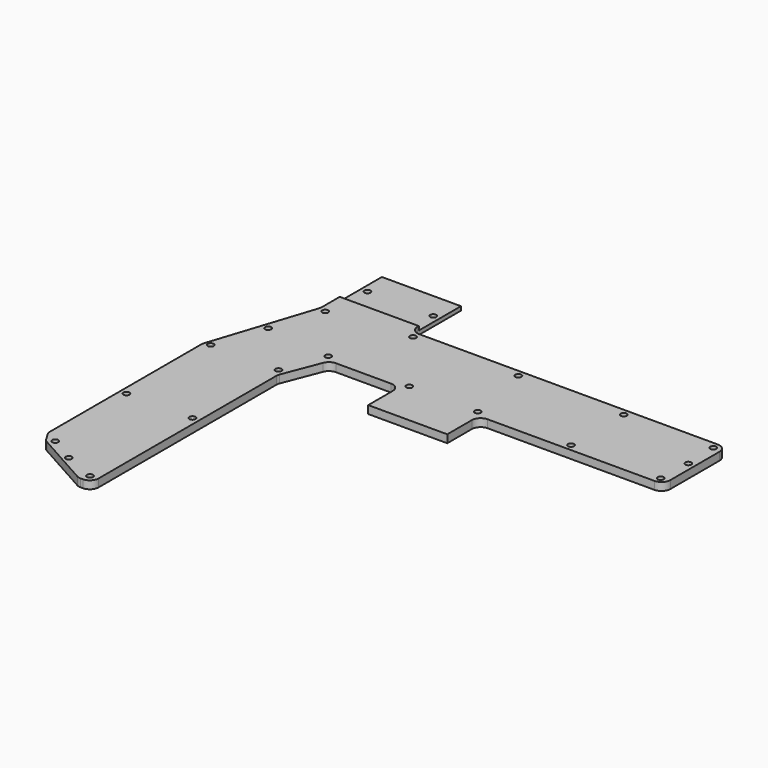
from build123d import *

# Parameters (mm, degrees)
PAD012_DEPTH            = 3
FILLET037_R             = 3.35
SKETCH185_R             = 1.15
POCKET053_DEPTH         = 3
POCKET056_DEPTH         = 5
SKETCH189_W             = 32
SKETCH189_H             = 20
POCKET057_DEPTH         = 1.5
BODY024_PLACEMENT_ANGLE = 149
CLONE_PLACEMENT_ANGLE   = 149


with BuildPart() as part:
    # Sketch184 → Pad012 (new body)
    with BuildSketch(Plane(origin=(0, 0, 0), x_dir=(1, 0, 0), z_dir=(0, 0, -1))):
        Polygon((101.467362, -402.500006), (130.400002, -402.500006), (135.400002, -402.500006), (135.400002, -397.500006), (174.999975, -357.90402), (174.999975, -245), (289.999995, -245), (294.999995, -245), (294.999995, -215), (289.999995, -215), (224.999995, -215), (224.999995, -199.999997), (219.999995, -199.999997), (199.999995, -199.999997), (194.999995, -199.999997), (194.999995, -215.000003), (168.459985, -215.000003), (161.999993, -198.359996), (161.999993, -115.000006), (161.999993, -110.000006), (156.999993, -110.000006), (134.576923, -122.534363), (131.999997, -126.895911), (131.999997, -200.027011), (144.989344, -239.967928), (144.989344, -343.839368), (96.467362, -392.500006), (96.467362, -397.500006), (96.467362, -402.500006), align=None)
    extrude(amount=PAD012_DEPTH)

    # Fillet037
    fillet037_edges = [part.edges().sort_by_distance(p)[0] for p in [
        (194.999995, 215.000003, -1.5),
        (168.459985, 215.000003, -1.5),
        (161.999993, 198.359996, -1.5),
        (161.999993, 110.000006, -1.5),
        (156.999993, 110.000006, -1.5),
        (134.576923, 122.534363, -1.5),
        (131.999997, 126.895911, -1.5),
        (131.999997, 200.027011, -1.5),
        (144.989344, 239.967928, -1.5),
        (144.989344, 343.839368, -1.5),
        (96.467362, 392.500006, -1.5),
        (135.400002, 397.500006, -1.5),
        (174.999975, 357.90402, -1.5),
        (174.999975, 245, -1.5),
        (294.999995, 245, -1.5),
        (294.999995, 215, -1.5),
        (224.999995, 215, -1.5),
    ]]
    fillet(fillet037_edges, radius=FILLET037_R)

    # Sketch185 (on Face5 of Fillet037) → Pocket053 (cut)
    with BuildSketch(Plane(origin=(0, 0, -3), x_dir=(1, 0, 0), z_dir=(0, 0, -1))):
        with Locations((105, -389)):
            Circle(SKETCH185_R)
        with Locations((145, -349)):
            Circle(SKETCH185_R)
        with Locations((147.500002, -309.000005)):
            Circle(SKETCH185_R)
        with Locations((147.500002, -259.000004)):
            Circle(SKETCH185_R)
        with Locations((172.500003, -259.000004)):
            Circle(SKETCH185_R)
        with Locations((172.500003, -309.000005)):
            Circle(SKETCH185_R)
        with Locations((172.500003, -349.000005)):
            Circle(SKETCH185_R)
        with Locations((147.665007, -382.765018)):
            Circle(SKETCH185_R)
        with Locations((178.000003, -242.500004)):
            Circle(SKETCH185_R)
        with Locations((218.000003, -242.500004)):
            Circle(SKETCH185_R)
        with Locations((258.000004, -242.500004)):
            Circle(SKETCH185_R)
        with Locations((258.000004, -217.500003)):
            Circle(SKETCH185_R)
        with Locations((292, -242.500004)):
            Circle(SKETCH185_R)
        with Locations((292.000004, -217.500003)):
            Circle(SKETCH185_R)
        with Locations((292.500004, -230.000003)):
            Circle(SKETCH185_R)
        with Locations((223.000003, -217.000003)):
            Circle(SKETCH185_R)
        with Locations((197, -217)):
            Circle(SKETCH185_R)
        with Locations((166.109996, -217.109995)):
            Circle(SKETCH185_R)
        with Locations((147.500002, -239)):
            Circle(SKETCH185_R)
        with Locations((141, -220)):
            Circle(SKETCH185_R)
        with Locations((134.427551, -201)):
            Circle(SKETCH185_R)
        with Locations((160.149996, -200.999996)):
            Circle(SKETCH185_R)
        with Locations((134.427551, -161)):
            Circle(SKETCH185_R)
        with Locations((159.500002, -161.000002)):
            Circle(SKETCH185_R)
        with Locations((137, -124)):
            Circle(SKETCH185_R)
        with Locations((146.849997, -118.149997)):
            Circle(SKETCH185_R)
        with Locations((159, -113)):
            Circle(SKETCH185_R)
    extrude(amount=-POCKET053_DEPTH, mode=Mode.SUBTRACT)

    # Sketch188 (on Face5 of Pocket053) → Pocket056 (cut)
    with BuildSketch(Plane(origin=(0, 0, -3), x_dir=(1, 0, 0), z_dir=(0, 0, -1))):
        Polygon((145, -269), (175, -269), (176, -269), (176, -410), (90, -410), (90, -269), align=None)
    extrude(amount=-POCKET056_DEPTH, mode=Mode.SUBTRACT)

    # Sketch189 (on Face2 of Pocket056) → Pocket057 (cut)
    with BuildSketch(Plane.XY):
        with Locations((160, 259)):
            Rectangle(SKETCH189_W, SKETCH189_H)
    extrude(amount=-POCKET057_DEPTH, mode=Mode.SUBTRACT)


with BuildPart() as part_1:
    # Body024 placement: moved
    add(part.part.moved(Location((707.641298, 2.853319, 22))).rotate(Axis((707.641298, 2.853319, 22), (0, 0, 1)), BODY024_PLACEMENT_ANGLE))


with BuildPart() as part_2:
    # Clone placement: moved
    add(part_1.part.moved(Location((477.097416, 93.907984, -22))).rotate(Axis((477.097416, 93.907984, -22), (0, 0, -1)), CLONE_PLACEMENT_ANGLE))


solid = part_2.part
